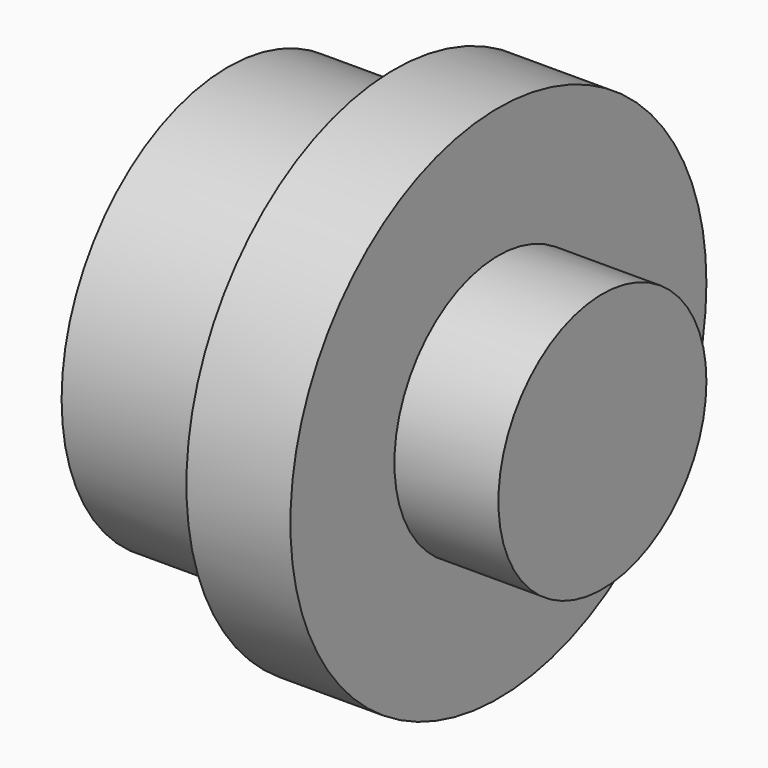
from build123d import *

# Parameters (mm, degrees)
F0_R     = 20
F1_DEPTH = 16
F2_R     = 25
F2_R_2   = 20
F3_DEPTH = 10
F4_R     = 12.5
F5_DEPTH = 10
F6_T     = -2.5


with BuildPart() as f1:
    # F0 (on Right) → F1 (new body)
    with BuildSketch(Plane.YZ):
        Circle(F0_R)
    extrude(amount=F1_DEPTH)

    # F2 (on face) → F3 (join)
    with BuildSketch(Plane.YZ.offset(16)):
        Circle(F2_R)
        Circle(F2_R_2, mode=Mode.SUBTRACT)
        Circle(F2_R_2)
    extrude(amount=F3_DEPTH)

    # F4 (on face) → F5 (join)
    with BuildSketch(Plane.YZ.offset(26)):
        Circle(F4_R)
    extrude(amount=F5_DEPTH)

    # F6
    f6_openings = [f1.faces().sort_by_distance(p)[0] for p in [
        (0, 0, 0),
    ]]
    offset(amount=F6_T, openings=f6_openings, kind=Kind.INTERSECTION)


solid = f1.part
